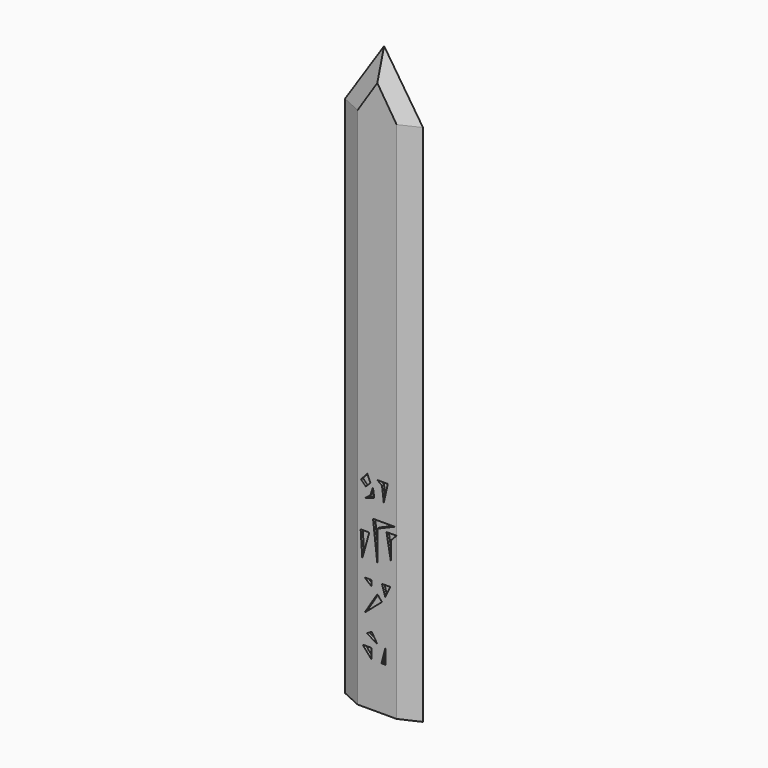
from build123d import *

# Parameters (mm, degrees)
F0_W      = 79.5655027032
F0_H      = 36.2267494202
F1_DEPTH  = 12.7
F2_DEPTH  = 12.7
F4_DEPTH  = 508
F7_DEPTH  = 76.2
F8_SIZE2  = 59.4614
F8_SIZE   = 15.9326341108
F9_DEPTH  = 25.4
F10_DEPTH = 25.4
F12_DEPTH = 990.6
F14_DEPTH = 2.54
F15_R     = 4.7223908188
F15_R_2   = 5.0016070344
F15_R_3   = 5.7976952483
F16_DEPTH = 2.54
F17_DEPTH = 2.54
F15_R_4   = 10.0977343341
F18_DEPTH = 2.54


with BuildPart() as f1:
    # F0 (on Top) → F1 (new body)
    with BuildSketch(Plane.XY):
        with Locations((-0.5556233227, -0.4444997758)):
            Rectangle(F0_W, F0_H)
    extrude(amount=F1_DEPTH)

    # F2 (add): a face of the model
    f2_faces = [f1.faces().sort_by_distance(p)[0] for p in [
        (-0.5556233227, -0.4444997758, 0),
    ]]
    extrude(f2_faces, amount=F2_DEPTH)

    # F3 (on face) → F4 (join)
    with BuildSketch(Plane.XY.offset(12.7)):
        Polygon((-39.5987667143, 0), (0, -17.9184600711), (38.5859385133, 0), (0, 16.9973578304), align=None)
    extrude(amount=F4_DEPTH)

    # F5 (on face) → F7 (join)
    with BuildSketch(Plane.XY.offset(520.7)):
        Polygon((0, 16.9973578304), (-39.5987667143, 0), (0, -17.9184600711), (38.5859385133, 0), align=None)
    extrude(amount=F7_DEPTH)

    # F8
    f8_edges = [f1.edges().sort_by_distance(p)[0] for p in [
        (-19.799383, 8.498679, 596.9),
        (-19.799383, -8.95923, 596.9),
        (19.292969, -8.95923, 596.9),
        (19.292969, 8.498679, 596.9),
    ]]
    f8_side = f1.faces().sort_by_distance((-0.337609, -0.307034, 596.9))[0]
    chamfer(f8_edges, length=F8_SIZE, length2=F8_SIZE2, reference=f8_side)

    # F9 (cut): a face of the model
    f9_faces = [f1.faces().sort_by_distance(p)[0] for p in [
        (-0.5556233227, 17.6688749343, 0),
    ]]
    extrude(f9_faces, amount=-F9_DEPTH, mode=Mode.SUBTRACT)

    # F10 (cut): a face of the model
    f10_faces = [f1.faces().sort_by_distance(p)[0] for p in [
        (-0.5556233227, -18.5578744859, 0),
    ]]
    extrude(f10_faces, amount=-F10_DEPTH, mode=Mode.SUBTRACT)

    # F11 (on face) → F12 (cut)
    with BuildSketch(Plane(origin=(0, 0, 12.7), x_dir=(1, 0, 0), z_dir=(0, 0, -1))):
        Polygon((19.2929692566, -8.4986789152), (-19.0062443799, -8.8391255534), (0, -16.9973578304), align=None)
        Polygon((0, 17.9184600711), (-19.7993833572, 8.9592300355), (19.2929692566, 8.9592300355), align=None)
    extrude(amount=-F12_DEPTH, mode=Mode.SUBTRACT)

    # F13 (on face) → F14 (cut)
    with BuildSketch(Plane.XZ.offset(8.9592300355)):
        Polygon((-5.7092197239, 67.276135087), (-14.744236134, 67.276135087), (-5.7092197239, 56.8145401776), align=None)
        Polygon((-5.7092197239, 81.541955471), (-10.3269121596, 78.6602750576), (0, 72.3933279514), align=None)
        Polygon((8.2473233342, 72.3933279514), (4.1236616671, 56.8145401776), (8.2473233342, 56.8145401776), align=None)
        Polygon((4.6280114911, 111.1536622047), (0, 116.509437561), (-3.4518866095, 111.1536622047), (0, 107.1567420286), align=None)
        Polygon((0, 107.1567420286), (-3.4518866095, 111.1536622047), (-12.7805698984, 96.1189739098), align=None)
        Polygon((12.8676695749, 127.2209882736), (4.6280114911, 127.2209882736), (7.923877798, 116.509437561), align=None)
        Polygon((-5.7092197239, 127.2209882736), (-12.7805698984, 127.2209882736), (-5.7092197239, 121.4532256126), align=None)
        Polygon((-8.1019662727, 168.4209555387), (-16.7561860792, 168.4209555387), (-15.1113785992, 143.4198766947), align=None)
        Polygon((17.3340859474, 181.7548722029), (-4.3335202499, 181.7548722029), (0, 143.4198766947), (0, 174.4212210178), align=None)
        Polygon((19.2929692566, 174.4212210178), (9.1791469604, 174.4212210178), (13.5126691312, 150.0868350267), (13.5126691312, 168.4209555387), align=None)
        Polygon((-10.0190835074, 219.7396159172), (-16.4250414819, 212.641119957), (-11.5772895515, 207.7933698893), (-6.9892390831, 212.3814221205), align=None)
        Polygon((-3.0937220436, 200.694873929), (-4.4787940569, 209.3515694141), (-7.0758047514, 201.5605419874), (-12.2698256746, 197.4053233862), align=None)
        Polygon((10.4673623787, 217.3157334328), (0, 217.3157334328), (4.6973093413, 213.8530611992), (6.4286491834, 199.3097960949), align=None)
    extrude(amount=-F14_DEPTH, mode=Mode.SUBTRACT)

    # F15 (on face) → F16 (cut)
    with BuildSketch(Plane(origin=(0.0770642261, 8.6694915677, 0), x_dir=(-0.999960494, 0.0088887775, 0), z_dir=(0.0088887775, 0.999960494, 0))):
        Polygon((-5.0101145171, 193.8393265009), (18.4150565981, 205.1092898235), (0, 211.7152458623), (5.321555137, 206.0856624681), align=None)
        with Locations((-13.8448020482, 194.3213612269)):
            Circle(F15_R)
        Polygon((0, 222.8169888258), (-14.5313953981, 222.8169888258), (-9.9522862583, 216.8567724028), (-9.9522862583, 208.3285494864), align=None)
        Polygon((14.2441196367, 184.4016164541), (0, 184.4016164541), (7.9387001024, 181.2252998352), (7.9387001024, 171.6963350773), align=None)
        Polygon((6.4216358587, 166.7553931475), (-3.534253221, 171.6963350773), (-3.534253221, 165.3437018394), (-12.7790076658, 154.0501266718), align=None)
        with Locations((-13.4785573803, 174.5197325945)):
            Circle(F15_R_2)
        Polygon((-7.7404505573, 127.4524182081), (-19.2166642034, 127.4524182081), (-11.3098684233, 122.3911568522), (-14.8792862892, 97.0848351717), align=None)
        Polygon((4.3998237607, 121.7705684579), (0, 122.3911568522), (4.3998237607, 112.2686266899), align=None)
        Polygon((12.6581645212, 100.1175699209), (19.0840625402, 127.4524182081), (12.6581645212, 127.4524182081), align=None)
        with Locations((3.9876382798, 63.1743595004)):
            Circle(F15_R_3)
        Polygon((12.6581645212, 36.8557795882), (19.0840625402, 70.260129869), (11.126473546, 70.260129869), (12.6581645212, 63.1743595004), align=None)
        Polygon((0, 70.260129869), (-14.8792862892, 70.260129869), (-7.4396431446, 35.8435250819), (-7.4396431446, 63.1743595004), align=None)
    extrude(amount=-F16_DEPTH, mode=Mode.SUBTRACT)

    # F15 (on face) → F17 (cut)
    with BuildSketch(Plane(origin=(0.0770642261, 8.6694915677, 0), x_dir=(-0.999960494, 0.0088887775, 0), z_dir=(0.0088887775, 0.999960494, 0))):
        Polygon((-1.6840323806, 268.7916457653), (-13.4387072176, 268.7916457653), (-14.7950164974, 261.6117596626), align=None)
        Polygon((-6.2050614506, 246.8032687902), (-19.2166642034, 229.3023318052), (5.5496133864, 246.8032687902), (-8.9176781476, 258.0218315125), align=None)
        Polygon((11.4269517362, 254.4319033623), (19.0840625402, 268.7916457653), (5.5496133864, 268.7916457653), (11.4269517362, 262.0604932308), align=None)
    extrude(amount=-F17_DEPTH, mode=Mode.SUBTRACT)

    # F15 (on face) → F18 (cut)
    with BuildSketch(Plane(origin=(0.0770642261, 8.6694915677, 0), x_dir=(-0.999960494, 0.0088887775, 0), z_dir=(0.0088887775, 0.999960494, 0))):
        with Locations((0, 328.499019146)):
            Circle(F15_R_4)
        Polygon((-19.2166642034, 303.9276003838), (19.0840625402, 303.1830191612), (19.0840625402, 314.3518567085), align=None)
        Polygon((11.4269517362, 286.8020832539), (19.0840625402, 294.9925661087), (-19.2166642034, 294.9925661087), align=None)
    extrude(amount=-F18_DEPTH, mode=Mode.SUBTRACT)


solid = f1.part
